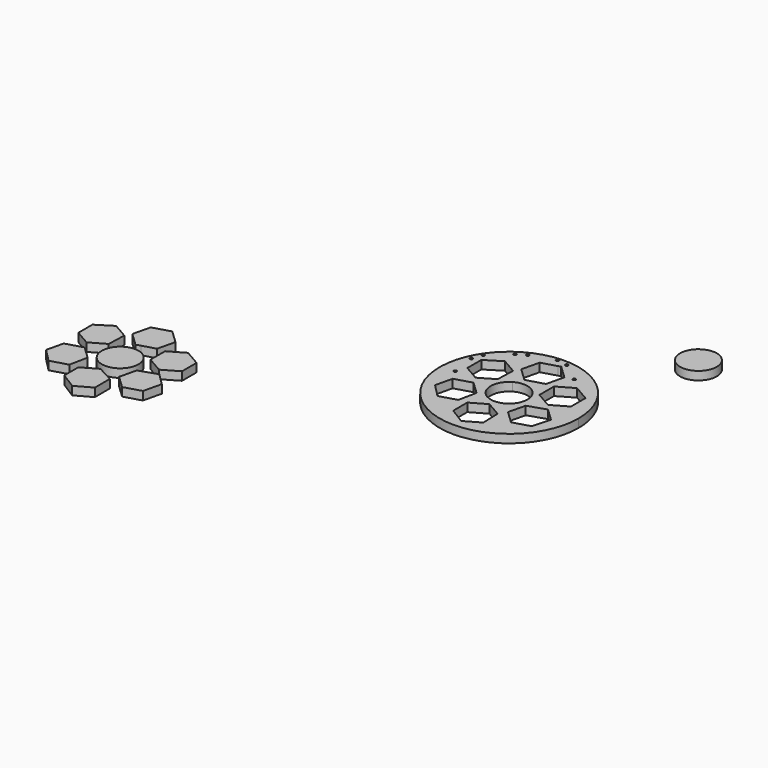
from build123d import *

# Parameters (mm, degrees)
F0_R     = 10.9
F0_R_2   = 0.85921
F1_DEPTH = 5
F2_DEPTH = 5


with BuildPart() as f1:
    # F0 (on Top) → F1 (new body)
    with BuildSketch(Plane.XY):
        with Locations((599.586129, 99.440821)):
            Circle(F0_R)
        with BuildLine():
            ThreePointArc((530.832966, 54.648217), (522.021409, 47.754404), (515.388299, 38.744963))
            ThreePointArc((515.388299, 38.744963), (541.422817, -20.906871), (592.809103, 19.037928))
            ThreePointArc((592.809103, 19.037928), (572.12554, 54.777032), (530.832966, 54.648217))
        make_face()
        Polygon((542.591575, -0.764023), (551.591575, 4.432129), (560.591575, -0.764023), (560.941575, -11.762546), (551.941575, -16.958698), (542.591575, -11.156328), align=None, mode=Mode.SUBTRACT)
        Polygon((532.370231, 16.644207), (539.906237, 9.488188), (537.675541, -1.287432), (527.710244, -4.235796), (519.975643, 3.591461), (522.404934, 13.695843), align=None, mode=Mode.SUBTRACT)
        with Locations((518.526467, 20.350881)):
            Circle(F0_R_2, mode=Mode.SUBTRACT)
        with Locations((516.46401, 34.909212)):
            Circle(F0_R_2, mode=Mode.SUBTRACT)
        Polygon((539.29094, 37.342195), (538.94094, 26.343672), (529.94094, 21.14752), (520.94094, 26.343672), (520.94094, 36.735977), (530.29094, 42.538347), align=None, mode=Mode.SUBTRACT)
        with Locations((518.669301, 41.004423)):
            Circle(F0_R_2, mode=Mode.SUBTRACT)
        with Locations((529.569507, 50.872769)):
            Circle(F0_R_2, mode=Mode.SUBTRACT)
        with Locations((534.740602, 53.886167)):
            Circle(F0_R_2, mode=Mode.SUBTRACT)
        Polygon((563.276913, 3.591461), (565.706204, 13.695843), (576.153513, 17.151814), (583.689519, 9.995795), (580.778217, -0.616194), (570.812919, -3.564558), align=None, mode=Mode.SUBTRACT)
        with BuildLine():
            ThreePointArc((562.490543, 19.037928), (546.161861, 9.585976), (546.09799, 28.452909))
            ThreePointArc((546.09799, 28.452909), (557.019225, 28.489881), (562.490543, 19.037928))
        make_face(mode=Mode.SUBTRACT)
        Polygon((563.89221, 36.93805), (573.24221, 42.336275), (582.59221, 36.93805), (582.59221, 26.1416), (573.24221, 20.743375), (563.89221, 26.1416), align=None, mode=Mode.SUBTRACT)
        Polygon((549.067812, 33.542494), (541.238738, 40.976802), (543.762502, 51.474133), (552.534222, 54.069361), (554.115338, 54.537155), (561.944412, 47.102847), (559.420649, 36.605516), (550.648928, 34.010288), align=None, mode=Mode.SUBTRACT)
        with Locations((566.739757, 48.446639)):
            Circle(F0_R_2, mode=Mode.SUBTRACT)
        with Locations((548.700154, 58.504568)):
            Circle(F0_R_2, mode=Mode.SUBTRACT)
        with Locations((555.090375, 57.418296)):
            Circle(F0_R_2, mode=Mode.SUBTRACT)
        with Locations((388.786204, -65.893197)):
            Circle(F0_R)
        Polygon((380.957131, -33.458888), (378.433368, -43.956219), (386.262441, -51.390528), (388.786204, -50.643839), (388.786204, -40.893197), (389.728851, -30.86366), align=None)
        Polygon((391.309968, -30.395866), (389.728851, -30.86366), (388.786204, -40.893197), (388.786204, -50.643839), (396.615278, -48.327505), (399.139041, -37.830175), align=None)
        Polygon((374.87017, -86.220454), (377.100867, -75.444833), (369.56486, -68.288814), (359.599563, -71.237178), (357.170272, -81.341561), (364.904873, -89.168817), align=None)
        Polygon((413.417001, -67.708692), (402.900833, -71.237178), (400.471542, -81.341561), (408.007549, -88.497579), (417.972846, -85.549216), (420.565776, -74.764193), align=None)
        Polygon((419.786839, -47.994972), (410.436839, -42.596747), (401.086839, -47.994972), (401.086839, -58.791422), (410.436839, -64.189647), (419.786839, -58.791422), align=None)
        Polygon((367.135569, -63.785502), (376.135569, -58.589349), (376.535569, -47.504224), (367.535569, -42.308072), (358.135569, -48.197044), (358.135569, -58.589349), align=None)
        Polygon((398.486204, -85.697044), (388.786204, -80.500892), (379.786204, -85.697044), (379.786204, -96.089349), (389.186204, -101.978322), (398.486204, -96.789384), align=None)
    extrude(amount=F1_DEPTH)


with BuildPart() as f2:
    # F0 (on Top) → F2 (new body)
    with BuildSketch(Plane.XY):
        with Locations((599.586129, 99.440821)):
            Circle(F0_R)
        with BuildLine():
            ThreePointArc((530.832966, 54.648217), (522.021409, 47.754404), (515.388299, 38.744963))
            ThreePointArc((515.388299, 38.744963), (541.422817, -20.906871), (592.809103, 19.037928))
            ThreePointArc((592.809103, 19.037928), (572.12554, 54.777032), (530.832966, 54.648217))
        make_face()
        Polygon((542.591575, -0.764023), (551.591575, 4.432129), (560.591575, -0.764023), (560.941575, -11.762546), (551.941575, -16.958698), (542.591575, -11.156328), align=None, mode=Mode.SUBTRACT)
        Polygon((532.370231, 16.644207), (539.906237, 9.488188), (537.675541, -1.287432), (527.710244, -4.235796), (519.975643, 3.591461), (522.404934, 13.695843), align=None, mode=Mode.SUBTRACT)
        with Locations((518.526467, 20.350881)):
            Circle(F0_R_2, mode=Mode.SUBTRACT)
        with Locations((516.46401, 34.909212)):
            Circle(F0_R_2, mode=Mode.SUBTRACT)
        Polygon((539.29094, 37.342195), (538.94094, 26.343672), (529.94094, 21.14752), (520.94094, 26.343672), (520.94094, 36.735977), (530.29094, 42.538347), align=None, mode=Mode.SUBTRACT)
        with Locations((518.669301, 41.004423)):
            Circle(F0_R_2, mode=Mode.SUBTRACT)
        with Locations((529.569507, 50.872769)):
            Circle(F0_R_2, mode=Mode.SUBTRACT)
        with Locations((534.740602, 53.886167)):
            Circle(F0_R_2, mode=Mode.SUBTRACT)
        Polygon((563.276913, 3.591461), (565.706204, 13.695843), (576.153513, 17.151814), (583.689519, 9.995795), (580.778217, -0.616194), (570.812919, -3.564558), align=None, mode=Mode.SUBTRACT)
        with BuildLine():
            ThreePointArc((562.490543, 19.037928), (546.161861, 9.585976), (546.09799, 28.452909))
            ThreePointArc((546.09799, 28.452909), (557.019225, 28.489881), (562.490543, 19.037928))
        make_face(mode=Mode.SUBTRACT)
        Polygon((563.89221, 36.93805), (573.24221, 42.336275), (582.59221, 36.93805), (582.59221, 26.1416), (573.24221, 20.743375), (563.89221, 26.1416), align=None, mode=Mode.SUBTRACT)
        Polygon((549.067812, 33.542494), (541.238738, 40.976802), (543.762502, 51.474133), (552.534222, 54.069361), (554.115338, 54.537155), (561.944412, 47.102847), (559.420649, 36.605516), (550.648928, 34.010288), align=None, mode=Mode.SUBTRACT)
        with Locations((566.739757, 48.446639)):
            Circle(F0_R_2, mode=Mode.SUBTRACT)
        with Locations((548.700154, 58.504568)):
            Circle(F0_R_2, mode=Mode.SUBTRACT)
        with Locations((555.090375, 57.418296)):
            Circle(F0_R_2, mode=Mode.SUBTRACT)
        with Locations((388.786204, -65.893197)):
            Circle(F0_R)
        Polygon((380.957131, -33.458888), (378.433368, -43.956219), (386.262441, -51.390528), (388.786204, -50.643839), (388.786204, -40.893197), (389.728851, -30.86366), align=None)
        Polygon((391.309968, -30.395866), (389.728851, -30.86366), (388.786204, -40.893197), (388.786204, -50.643839), (396.615278, -48.327505), (399.139041, -37.830175), align=None)
        Polygon((374.87017, -86.220454), (377.100867, -75.444833), (369.56486, -68.288814), (359.599563, -71.237178), (357.170272, -81.341561), (364.904873, -89.168817), align=None)
        Polygon((413.417001, -67.708692), (402.900833, -71.237178), (400.471542, -81.341561), (408.007549, -88.497579), (417.972846, -85.549216), (420.565776, -74.764193), align=None)
        Polygon((419.786839, -47.994972), (410.436839, -42.596747), (401.086839, -47.994972), (401.086839, -58.791422), (410.436839, -64.189647), (419.786839, -58.791422), align=None)
        Polygon((367.135569, -63.785502), (376.135569, -58.589349), (376.535569, -47.504224), (367.535569, -42.308072), (358.135569, -48.197044), (358.135569, -58.589349), align=None)
        Polygon((398.486204, -85.697044), (388.786204, -80.500892), (379.786204, -85.697044), (379.786204, -96.089349), (389.186204, -101.978322), (398.486204, -96.789384), align=None)
    extrude(amount=F2_DEPTH)


solid = Compound([f1.part, f2.part])
